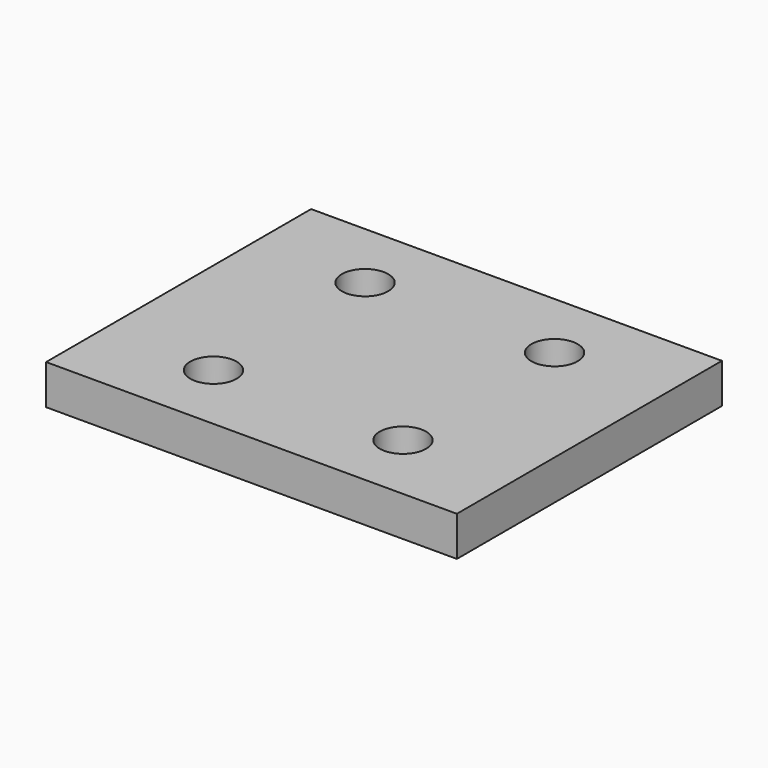
from build123d import *

# Parameters (mm, degrees)
F0_R     = 3.5
F1_DEPTH = 6


with BuildPart() as f1:
    # F0 (on Top) → F1 (new body)
    with BuildSketch(Plane.XY):
        Polygon((0, 50), (0, 0), (31, 0), (62, 0), (62, 50), align=None)
        with Locations((16.7, 10.7)):
            Circle(F0_R, mode=Mode.SUBTRACT)
        with Locations((45.3, 10.7)):
            Circle(F0_R, mode=Mode.SUBTRACT)
        with Locations((16.7, 39.3)):
            Circle(F0_R, mode=Mode.SUBTRACT)
        with Locations((45.3, 39.3)):
            Circle(F0_R, mode=Mode.SUBTRACT)
    extrude(amount=F1_DEPTH)


solid = f1.part
